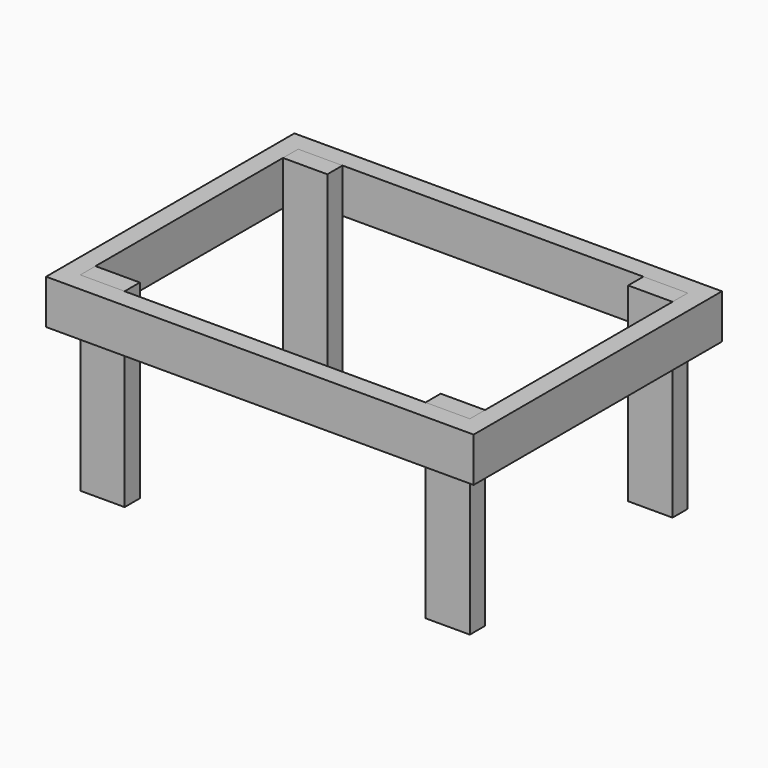
from build123d import *

# Parameters (mm, degrees)
F0_W     = 857.25
F0_H     = 622.3
F0_W_2   = 781.05
F0_H_2   = 546.1
F1_DEPTH = 88.9
F2_W     = 88.9
F2_H     = 38.1
F3_DEPTH = 381


with BuildPart() as f1:
    # F0 (on Top) → F1 (new body)
    with BuildSketch(Plane.XY):
        with Locations((3.175, -12.7)):
            Rectangle(F0_W, F0_H)
        with Locations((3.175, -12.7)):
            Rectangle(F0_W_2, F0_H_2, mode=Mode.SUBTRACT)
    extrude(amount=F1_DEPTH)


with BuildPart() as f3:
    # F2 (on face) → F3 (new body)
    with BuildSketch(Plane.XY.offset(88.9)):
        with Locations((-342.9, 241.3)):
            Rectangle(F2_W, F2_H)
    extrude(amount=-F3_DEPTH)


with BuildPart() as f3b:
    # F2 (on face) → F3, piece 2 (new body)
    with BuildSketch(Plane.XY.offset(88.9)):
        with Locations((-342.9, -266.7)):
            Rectangle(F2_W, F2_H)
    extrude(amount=-F3_DEPTH)


with BuildPart() as f3c:
    # F2 (on face) → F3, piece 3 (new body)
    with BuildSketch(Plane.XY.offset(88.9)):
        with Locations((349.25, -266.7)):
            Rectangle(F2_W, F2_H)
    extrude(amount=-F3_DEPTH)


with BuildPart() as f3d:
    # F2 (on face) → F3, piece 4 (new body)
    with BuildSketch(Plane.XY.offset(88.9)):
        with Locations((349.25, 241.3)):
            Rectangle(F2_W, F2_H)
    extrude(amount=-F3_DEPTH)


solid = Compound([f1.part, f3.part, f3b.part, f3c.part, f3d.part])
